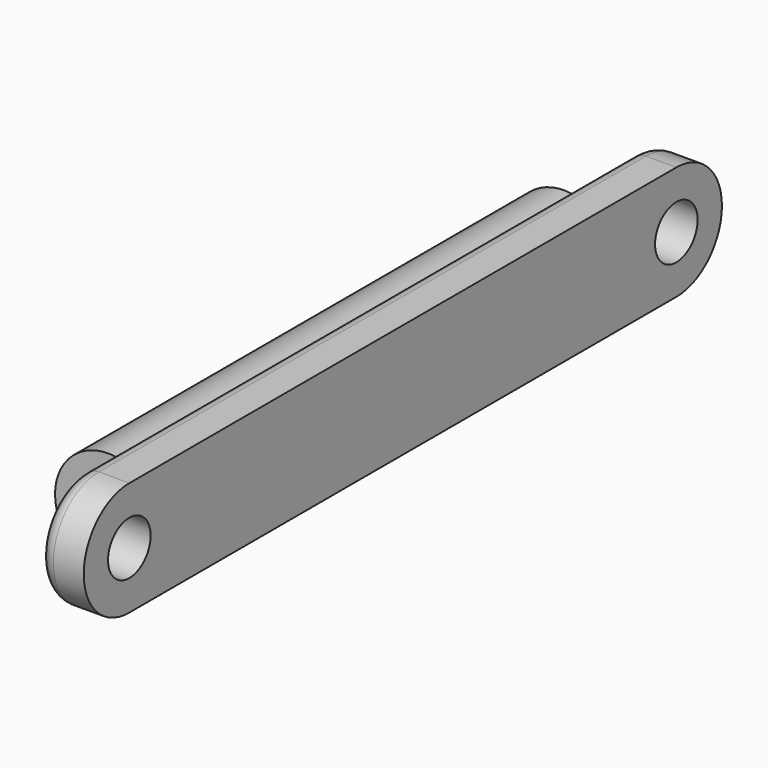
from build123d import *

# Parameters (mm, degrees)
SKETCH010_R                = 3.5
EXTRUDE009_DEPTH           = 6
FILLET001_R                = 2
EXTRUDE023_DEPTH           = 75
EXTRUDE023_PLACEMENT_ANGLE = 180


with BuildPart() as obj1:
    # Sketch010 → Extrude009 (new body)
    with BuildSketch(Plane(origin=(0, 0, 0), x_dir=(0, -1, 0), z_dir=(-1, 0, 0))):
        with BuildLine():
            ThreePointArc((0, 7.5), (-7.5, 0), (0, -7.5))
            Line((0, -7.5), (90, -7.5))
            ThreePointArc((90, -7.5), (97.5, 0), (90, 7.5))
            Line((0, 7.5), (90, 7.5))
        make_face()
        Circle(SKETCH010_R, mode=Mode.SUBTRACT)
        with Locations((90, 0)):
            Circle(SKETCH010_R, mode=Mode.SUBTRACT)
    extrude(amount=EXTRUDE009_DEPTH)


with BuildPart() as obj1_1:
    # Extrude009 placement: moved
    add(obj1.part.moved(Location((60, 5.35, 173.65))))

    # Fillet001
    fillet001_edges = [obj1_1.edges().sort_by_distance(p)[0] for p in [
        (54, -39.65, 181.15),
    ]]
    fillet(fillet001_edges, radius=FILLET001_R)


with BuildPart() as fusion028:
    # Sketch024 → Extrude023 (new body)
    with BuildSketch(Plane.XZ):
        with BuildLine():
            ThreePointArc((-4.21383, -5.589601), (7, 0), (-4.21383, 5.589601))
            ThreePointArc((-4.21383, -5.589601), (3.372719, 0), (-4.21383, 5.589601))
        make_face()
    extrude(amount=EXTRUDE023_DEPTH)


with BuildPart() as fusion028_1:
    # Extrude023 placement: moved
    add(fusion028.part.moved(Location((53.5, -5, 173.6))).rotate(Axis((53.5, -5, 173.6), (0, 1, 0)), EXTRUDE023_PLACEMENT_ANGLE))

    # Fusion028: union obj1
    add(obj1_1.part)


with BuildPart() as fusion028_2:
    # Fusion028 placement: moved
    add(fusion028_1.part.moved(Location((-4, 0, 0))))


solid = fusion028_2.part
